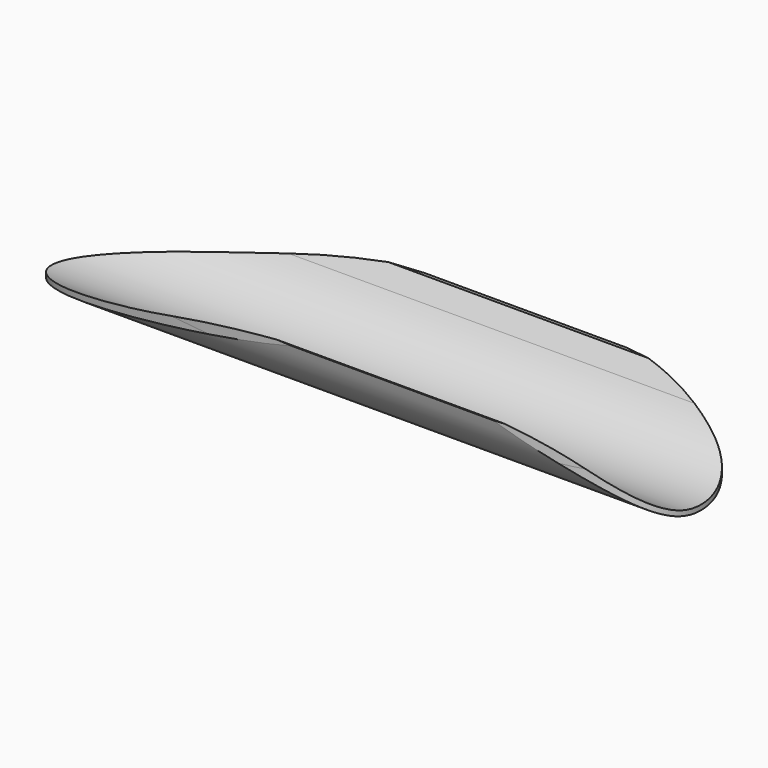
from build123d import *

# Parameters (mm, degrees)
F1_DEPTH = 10
F3_DEPTH = 100
F5_DEPTH = 100


with BuildPart() as f1:
    # F0 (on Top) → F1 (new body, symmetric)
    with BuildSketch(Plane.XY):
        with BuildLine():
            add(Edge.make_bspline(
                [(-65, 0), (-65, 3.9384197578), (-44.2964541725, 16.2873728277), (60.6156752763, 21.7459423145), (66.2097359245, 0), (60.6156752763, -21.7459423145), (-44.2964541725, -16.2873728277), (-65, -3.9384197578), (-65, 0)],
                knots=[0, 0, 0, 0, 0.1266051902, 0.396971793, 0.5, 0.603028207, 0.8733948098, 1, 1, 1, 1], degree=3))
        make_face()
    extrude(amount=F1_DEPTH, both=True)

    # F2 (on Right) → F3 (cut, symmetric)
    with BuildSketch(Plane.YZ):
        with BuildLine():
            Line((-16.4592039081, 4.401382496), (-13.9133739891, 0))
            ThreePointArc((-13.9133739891, 0), (0.0866260109, -8.075449035), (14.0866260109, 0))
            Line((14.0866260109, 0), (16.1633553569, 3.5903734669))
            Line((16.1633553569, 3.5903734669), (19.0447389302, 4.1077080864))
            Line((19.0447389302, 4.1077080864), (19.0447389302, 11.0051862262))
            Line((19.0447389302, 11.0051862262), (-19.27458619, 11.0051862262))
            Line((-19.27458619, 11.0051862262), (-19.27458619, 4.5866994551))
            Line((-19.27458619, 4.5866994551), (-16.4592039081, 4.401382496))
        make_face()
    extrude(amount=F3_DEPTH, both=True, mode=Mode.SUBTRACT)

    # F4 (on Right) → F5 (cut, symmetric)
    with BuildSketch(Plane.YZ):
        with BuildLine():
            ThreePointArc((17.1266555259, 5.9627156688), (-0.4915957656, -9.0657119499), (-17.0584643799, 7.1143770355))
            Line((-17.0584643799, 7.1143770355), (-23.8942094147, -11.3926613703))
            Line((-23.8942094147, -11.3926613703), (20.4203258146, -11.3926613703))
            Line((20.4203258146, -11.3926613703), (17.1266555259, 5.9627156688))
        make_face()
    extrude(amount=F5_DEPTH, both=True, mode=Mode.SUBTRACT)


solid = f1.part
